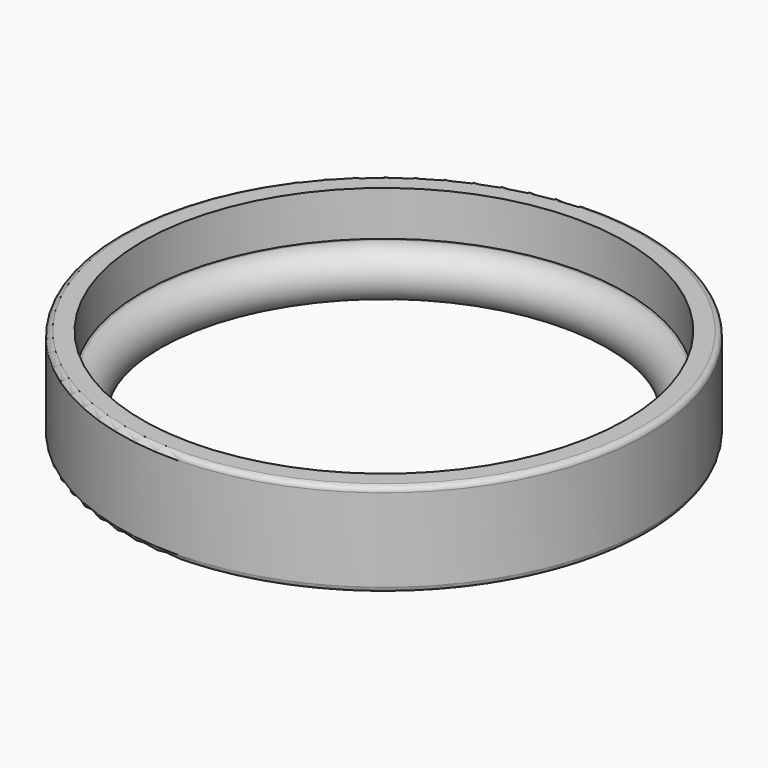
from build123d import *


with BuildPart() as f2:
    # F1 (on Front) → F2 (revolve)
    with BuildSketch(Plane.XZ):
        with BuildLine():
            Line((-24.2999375641, -2.3), (-22.4999375641, -2.3))
            ThreePointArc((-22.4999375641, -2.3), (-20.1999375641, 0), (-22.4999375641, 2.3))
            Line((-22.4999375641, 2.3), (-22.7000582963, 2.3))
            Line((-22.7000582963, 2.3), (-22.7000582963, 6.5))
            Line((-22.7000582963, 6.5), (-24.2999375641, 6.5))
            ThreePointArc((-24.2999375641, 6.5), (-24.6534909547, 6.3535533906), (-24.7999375641, 6))
            Line((-24.7999375641, 6), (-24.7999375641, 2))
            Line((-24.7999375641, 2), (-24.7999375641, -1.8))
            ThreePointArc((-24.7999375641, -1.8), (-24.6534909547, -2.1535533906), (-24.2999375641, -2.3))
        make_face()
    revolve(axis=Axis((0, 0, 0), (0, 0, 1)))


solid = f2.part
